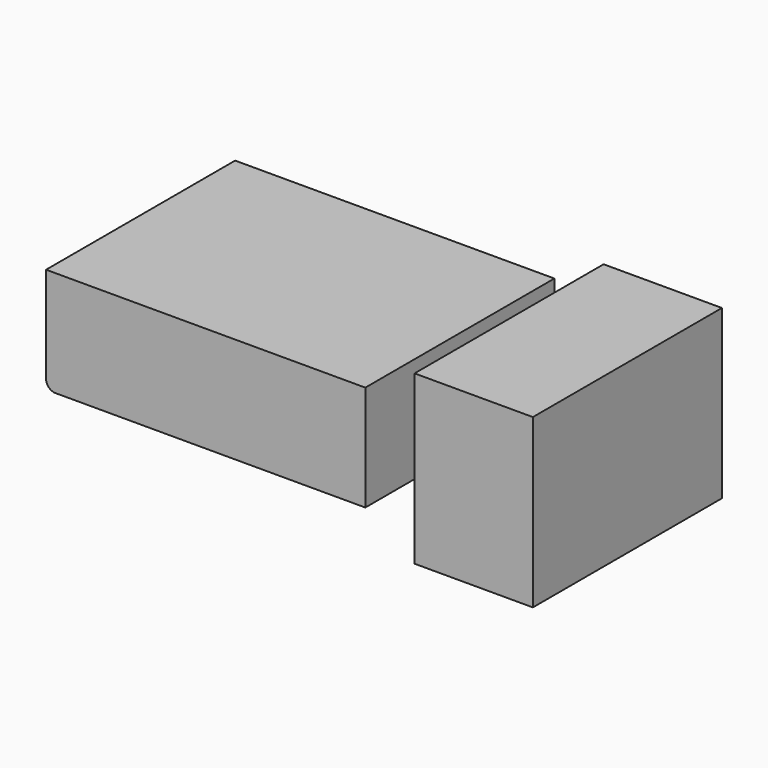
from build123d import *

# Parameters (mm, degrees)
F0_W     = 172.248445
F0_H     = 56.967361
F0_W_2   = 63.843325
F0_H_2   = 90.414405
F1_DEPTH = 127.508
F2_R     = 5.08


with BuildPart() as f1:
    # F0 (on Front) → F1 (new body)
    with BuildSketch(Plane.XZ):
        with Locations((-8.141096, 11.146949)):
            Rectangle(F0_W, F0_H)
        with Locations((136.470474, 9.830597)):
            Rectangle(F0_W_2, F0_H_2)
    extrude(amount=F1_DEPTH)

    # F2
    f2_edges = [f1.edges().sort_by_distance(p)[0] for p in [
        (-94.265319, -63.754, -17.336732),
    ]]
    fillet(f2_edges, radius=F2_R)


solid = f1.part
